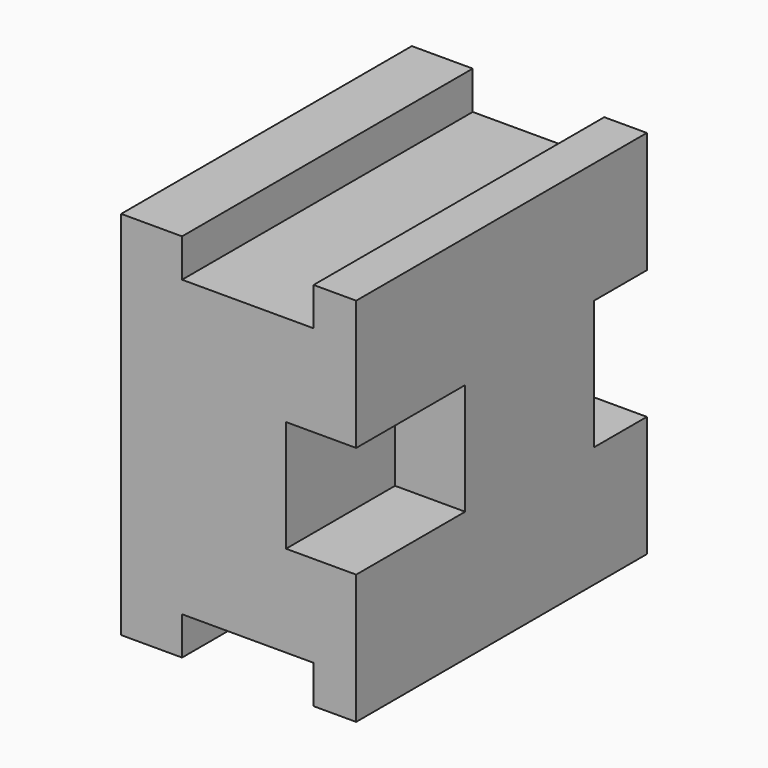
from build123d import *

# Parameters (mm, degrees)
F1_DEPTH = 203.2
F2_W     = 39.2361320555
F2_H     = 31.1854332685
F3_DEPTH = 76.2
F4_W     = 36.9407311082
F4_H     = 36.0926240683
F5_DEPTH = 152.4


with BuildPart() as f1:
    # F0 (on Front) → F1 (new body)
    with BuildSketch(Plane.XZ):
        Polygon((69.8149204254, 103.6990359426), (-61.6281554103, 103.6990359426), (-61.6281554103, 0), (-27.5641046464, 0), (-27.5641046464, 21.35152556), (45.9949746728, 21.35152556), (45.9949746728, 0), (69.8149204254, 0), align=None)
    extrude(amount=F1_DEPTH)

    # F2 (on face) → F3 (cut)
    with BuildSketch(Plane.XZ.offset(203.2)):
        with Locations((50.1968543977, 88.1063193083)):
            Rectangle(F2_W, F2_H)
    extrude(amount=-F3_DEPTH, mode=Mode.SUBTRACT)

    # F4 (on face) → F5 (cut)
    with BuildSketch(Plane.YZ.offset(69.8149204254)):
        with Locations((-18.4703655541, 85.6527239084)):
            Rectangle(F4_W, F4_H)
        with Locations((-18.4703655541, 85.6527239084)):
            Rectangle(F4_W, F4_H)
    extrude(amount=-F5_DEPTH, mode=Mode.SUBTRACT)

    # F6: F1 across face


with BuildPart() as f1_1:
    add(f1.part)
    add(f1.part.mirror(Plane(origin=(-3.2137127472, -112.9334664292, 103.6990359426), x_dir=(1, 0, 0), z_dir=(0, 0, 1))))


solid = f1_1.part
